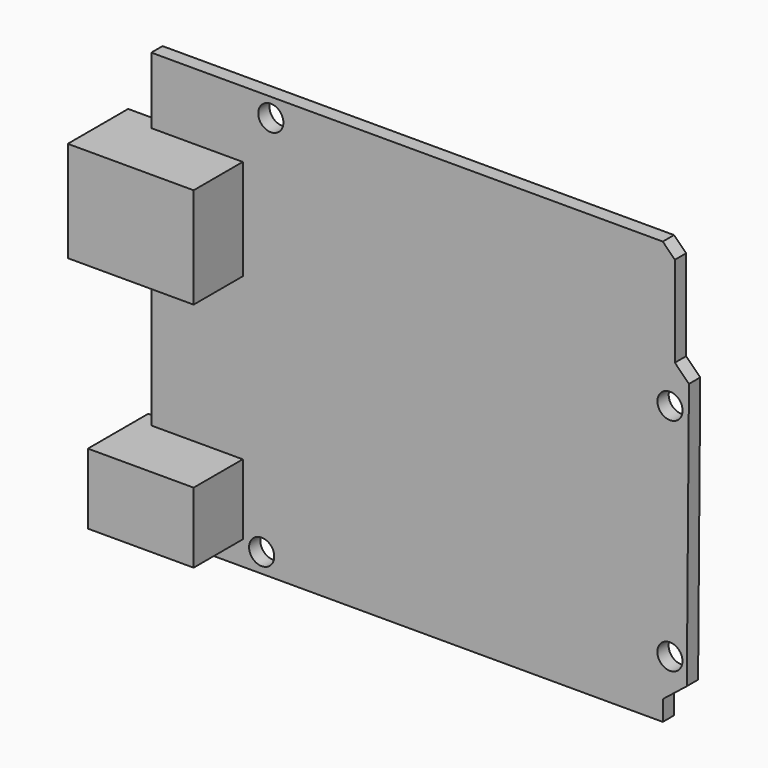
from build123d import *

# Parameters (mm, degrees)
F1_DEPTH = 1.778
F2_W     = 13.335
F2_H     = 8.89
F2_W_2   = 15.875
F2_H_2   = 12.7
F3_DEPTH = 9.525
F4_R     = 1.5875
F5_DEPTH = 1.778


with BuildPart() as f1:
    # F0 (on Front) → F1 (new body)
    with BuildSketch(Plane.XZ):
        Polygon((29.10832, 24.370352), (-35.40768, 24.370352), (-35.40768, -28.969648), (29.10832, -28.969648), (29.10832, -26.429648), (32.137258, -24.022085), (32.41032, 9.638352), (30.63232, 11.416352), (30.63232, 22.846352), align=None)
    extrude(amount=F1_DEPTH)

    # F2 (on Front) → F3 (join)
    with BuildSketch(Plane.XZ):
        with Locations((-30.537364, -21.481267)):
            Rectangle(F2_W, F2_H)
        with Locations((-31.807364, 9.633733)):
            Rectangle(F2_W_2, F2_H_2)
    extrude(amount=F3_DEPTH)

    # F4 (on Front) → F5 (cut)
    with BuildSketch(Plane.XZ):
        with Locations((-20.330156, 22.014147)):
            Circle(F4_R)
        with Locations((-21.484396, -26.541674)):
            Circle(F4_R)
        with Locations((30.017542, 6.413083)):
            Circle(F4_R)
        with Locations((30.00577, -21.418037)):
            Circle(F4_R)
    extrude(amount=F5_DEPTH, mode=Mode.SUBTRACT)


solid = f1.part
